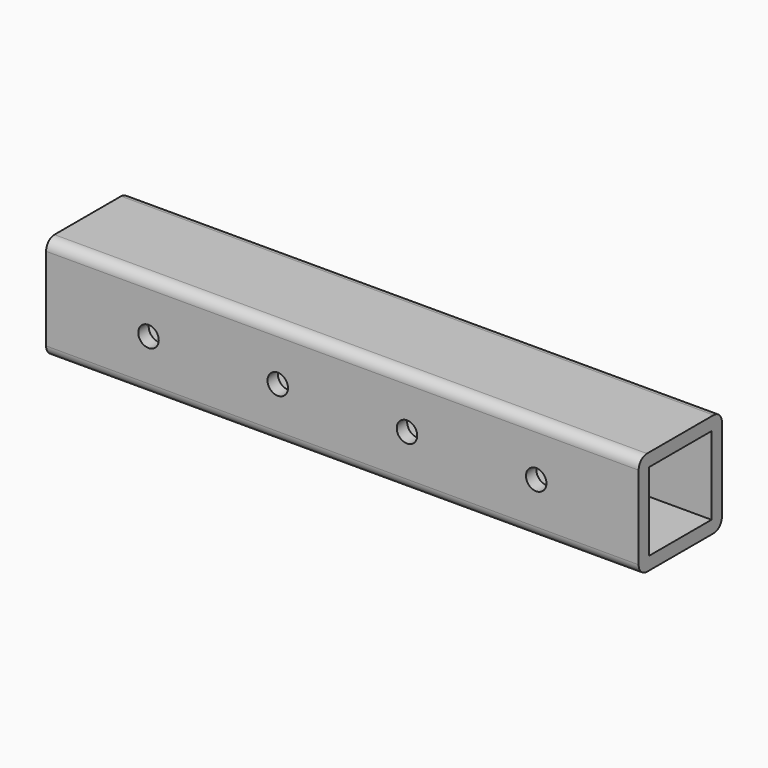
from build123d import *

# Parameters (mm, degrees)
F0_W     = 289.201
F0_H     = 50.8
F1_DEPTH = 50.8
F2_R     = 5
F3_DEPTH = 25.4
F4_W     = 38.1
F4_H     = 38.1
F5_DEPTH = 289.202
F6_R     = 5.08


with BuildPart() as f1:
    # F0 (on Front) → F1 (new body)
    with BuildSketch(Plane.XZ):
        with Locations((-1315.305821, 25.4)):
            Rectangle(F0_W, F0_H)
    extrude(amount=F1_DEPTH)

    # F2 (on face) → F3 (cut)
    with BuildSketch(Plane.XZ.offset(50.8)):
        with Locations((-1346.839321, 25.4)):
            Circle(F2_R)
        with Locations((-1220.705321, 25.4)):
            Circle(F2_R)
        with Locations((-1283.772321, 25.4)):
            Circle(F2_R)
        with Locations((-1409.906321, 25.4)):
            Circle(F2_R)
    extrude(amount=-F3_DEPTH, mode=Mode.SUBTRACT)

    # F4 (on face) → F5 (cut, through all)
    with BuildSketch(Plane(origin=(-1459.906321, 0, 0), x_dir=(0, -1, 0), z_dir=(-1, 0, 0))):
        with Locations((25.4, 25.4)):
            Rectangle(F4_W, F4_H)
    extrude(amount=-F5_DEPTH, mode=Mode.SUBTRACT)

    # F6
    f6_edges = [f1.edges().sort_by_distance(p)[0] for p in [
        (-1315.305821, -50.8, 50.8),
        (-1315.305821, 0, 50.8),
        (-1315.305821, -50.8, 0),
        (-1315.305821, 0, 0),
    ]]
    fillet(f6_edges, radius=F6_R)


solid = f1.part
